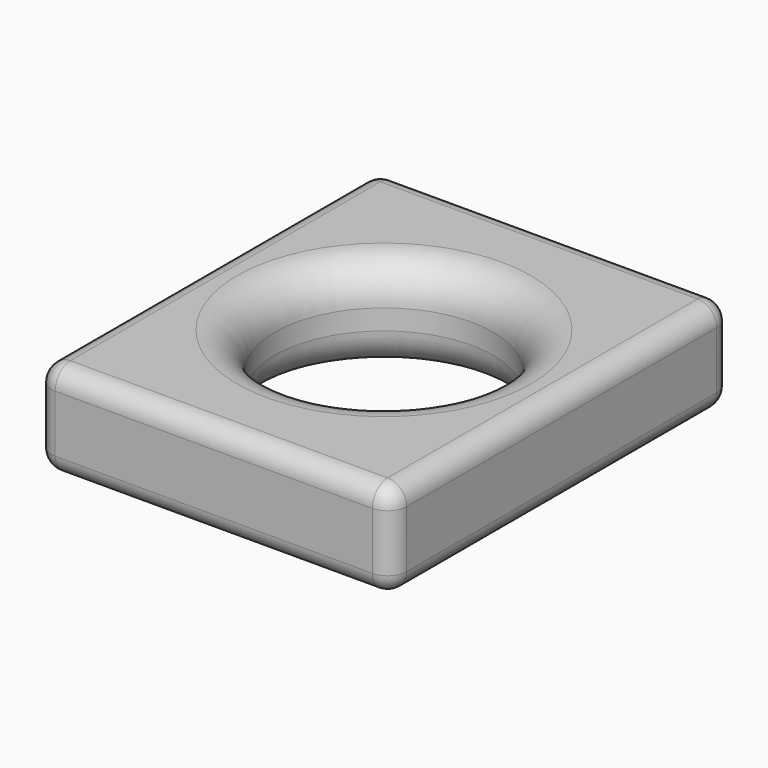
from build123d import *

# Parameters (mm, degrees)
F0_W     = 94.654716
F0_H     = 113.359868
F1_DEPTH = 25.4
F2_R     = 29.109761
F3_DEPTH = 25.401
F4_R     = 5.08
F5_R     = 10


with BuildPart() as f1:
    # F0 (on Top) → F1 (new body)
    with BuildSketch(Plane.XY):
        Rectangle(F0_W, F0_H)
    extrude(amount=F1_DEPTH)

    # F2 (on face) → F3 (cut, through all)
    with BuildSketch(Plane.XY.offset(25.4)):
        Circle(F2_R)
    extrude(amount=-F3_DEPTH, mode=Mode.SUBTRACT)

    # F4
    f4_edges = [f1.edges().sort_by_distance(p)[0] for p in [
        (-47.327358, -56.679934, 12.7),
        (47.327358, -56.679934, 12.7),
        (0, -56.679934, 0),
        (0, -56.679934, 25.4),
        (47.327358, 56.679934, 12.7),
        (47.327358, 0, 0),
        (47.327358, 0, 25.4),
        (-47.327358, 56.679934, 12.7),
        (0, 56.679934, 0),
        (0, 56.679934, 25.4),
        (-47.327358, 0, 0),
        (-47.327358, 0, 25.4),
    ]]
    fillet(f4_edges, radius=F4_R)

    # F5
    f5_edges = [f1.edges().sort_by_distance(p)[0] for p in [
        (-29.109761, 0, 25.4),
        (29.109761, 0, 12.7),
        (-29.109761, 0, 0),
    ]]
    fillet(f5_edges, radius=F5_R)


solid = f1.part
